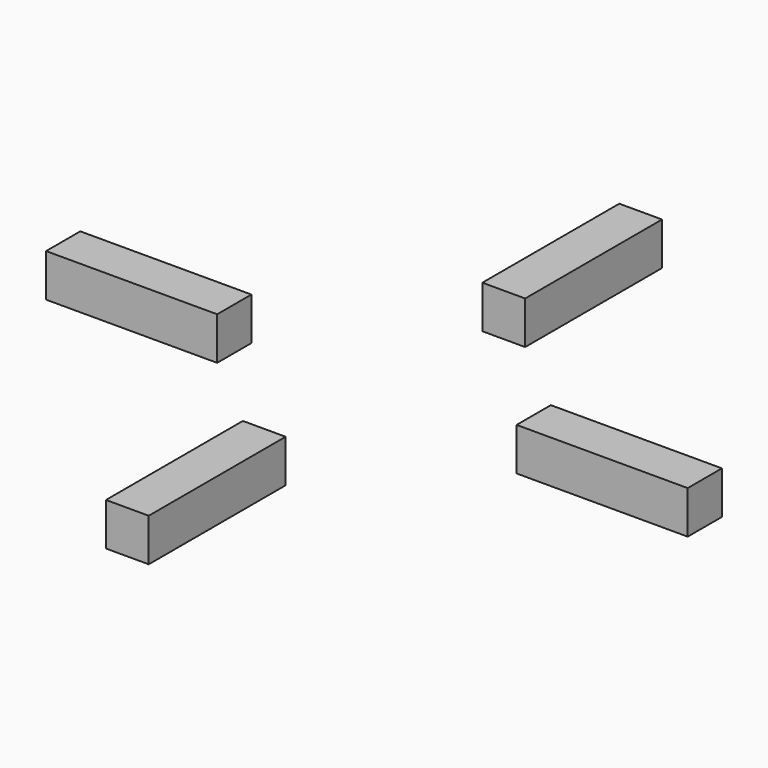
from build123d import *

# Parameters (mm, degrees)
F0_W     = 355.6
F0_H     = 88.9
F0_W_2   = 88.9
F0_H_2   = 355.6
F1_DEPTH = 88.9


with BuildPart() as f1:
    # F0 (on Top) → F1 (new body)
    with BuildSketch(Plane.XY):
        with Locations((-488.95, 0)):
            Rectangle(F0_W, F0_H)
        with Locations((0, 488.95)):
            Rectangle(F0_W_2, F0_H_2)
        with Locations((488.95, 0)):
            Rectangle(F0_W, F0_H)
        with Locations((0, -488.95)):
            Rectangle(F0_W_2, F0_H_2)
    extrude(amount=F1_DEPTH)


solid = f1.part
